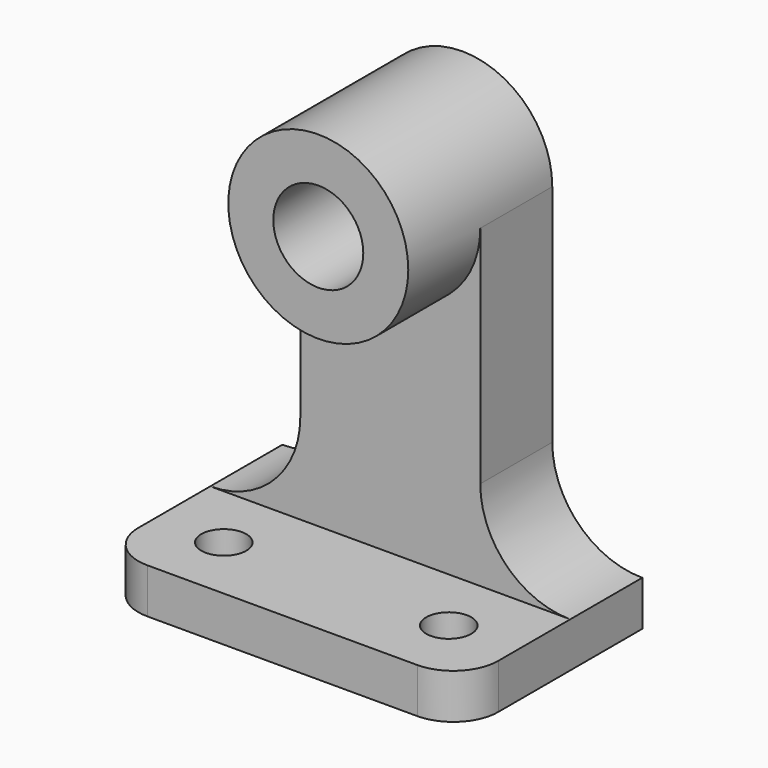
from build123d import *

# Parameters (mm, degrees)
F1_DEPTH = 6.35
F3_DEPTH = 12.7
F5_DEPTH = 12.7
F6_R     = 6.35
F7_DEPTH = 25.4
F8_R     = 3.175
F9_DEPTH = 6.35


with BuildPart() as f1:
    # F0 (on Top) → F1 (new body)
    with BuildSketch(Plane.XY):
        with BuildLine():
            Line((50.8, 0), (0, 0))
            Line((0, 0), (0, -25.4))
            ThreePointArc((0, -25.4), (6.35, -19.05), (12.7, -25.4))
            Line((12.7, -25.4), (38.1, -25.4))
            ThreePointArc((38.1, -25.4), (44.45, -19.05), (50.8, -25.4))
            Line((50.8, -25.4), (50.8, 0))
        make_face()
        with BuildLine():
            ThreePointArc((12.7, -25.4), (6.35, -19.05), (0, -25.4))
            Line((0, -25.4), (6.35, -25.4))
            Line((6.35, -25.4), (12.7, -25.4))
        make_face()
        with BuildLine():
            Line((6.35, -25.4), (0, -25.4))
            ThreePointArc((0, -25.4), (1.8598719395, -29.8901280605), (6.35, -31.75))
            Line((6.35, -31.75), (6.35, -25.4))
        make_face()
        with BuildLine():
            Line((12.7, -25.4), (6.35, -25.4))
            Line((6.35, -25.4), (6.35, -31.75))
            ThreePointArc((6.35, -31.75), (10.8401280605, -29.8901280605), (12.7, -25.4))
        make_face()
        with BuildLine():
            Line((38.1, -25.4), (12.7, -25.4))
            ThreePointArc((12.7, -25.4), (10.8401280605, -29.8901280605), (6.35, -31.75))
            Line((6.35, -31.75), (44.45, -31.75))
            ThreePointArc((44.45, -31.75), (39.9598719395, -29.8901280605), (38.1, -25.4))
        make_face()
        with BuildLine():
            Line((44.45, -31.75), (44.45, -25.4))
            Line((44.45, -25.4), (38.1, -25.4))
            ThreePointArc((38.1, -25.4), (39.9598719395, -29.8901280605), (44.45, -31.75))
        make_face()
        with BuildLine():
            ThreePointArc((44.45, -31.75), (48.9401280605, -29.8901280605), (50.8, -25.4))
            Line((50.8, -25.4), (44.45, -25.4))
            Line((44.45, -25.4), (44.45, -31.75))
        make_face()
        with BuildLine():
            Line((44.45, -25.4), (50.8, -25.4))
            ThreePointArc((50.8, -25.4), (44.45, -19.05), (38.1, -25.4))
            Line((38.1, -25.4), (44.45, -25.4))
        make_face()
    extrude(amount=F1_DEPTH)

    # F2 (on Front) → F3 (join)
    with BuildSketch(Plane.XZ):
        with BuildLine():
            Line((12.7, 19.05), (12.7, 6.35))
            Line((12.7, 6.35), (38.1, 6.35))
            Line((38.1, 6.35), (38.1, 19.05))
            Line((38.1, 19.05), (38.1, 50.8))
            ThreePointArc((38.1, 50.8), (25.4, 38.1), (12.7, 50.8))
            Line((12.7, 50.8), (12.7, 19.05))
        make_face()
        with BuildLine():
            Line((0, 6.35), (12.7, 6.35))
            Line((12.7, 6.35), (12.7, 19.05))
            ThreePointArc((12.7, 19.05), (8.9802561211, 10.0697438789), (0, 6.35))
        make_face()
        with BuildLine():
            Line((38.1, 19.05), (38.1, 6.35))
            Line((38.1, 6.35), (50.8, 6.35))
            ThreePointArc((50.8, 6.35), (41.8197438789, 10.0697438789), (38.1, 19.05))
        make_face()
        with BuildLine():
            ThreePointArc((38.1, 50.8), (25.4, 63.5), (12.7, 50.8))
            Line((12.7, 50.8), (38.1, 50.8))
        make_face()
        with BuildLine():
            Line((38.1, 50.8), (12.7, 50.8))
            ThreePointArc((12.7, 50.8), (25.4, 38.1), (38.1, 50.8))
        make_face()
    extrude(amount=F3_DEPTH)

    # F4 (on face) → F5 (join)
    with BuildSketch(Plane.XZ.offset(12.7)):
        with BuildLine():
            ThreePointArc((12.7, 50.8), (25.4, 38.1), (38.1, 50.8))
            ThreePointArc((38.1, 50.8), (25.4, 63.5), (12.7, 50.8))
        make_face()
    extrude(amount=F5_DEPTH)

    # F6 (on face) → F7 (cut)
    with BuildSketch(Plane.XZ.offset(25.4)):
        with Locations((25.4, 50.8)):
            Circle(F6_R)
    extrude(amount=-F7_DEPTH, mode=Mode.SUBTRACT)

    # F8 (on face) → F9 (cut)
    with BuildSketch(Plane.XY.offset(6.35)):
        with Locations((9.525, -22.225)):
            Circle(F8_R)
        with Locations((41.275, -22.225)):
            Circle(F8_R)
    extrude(amount=-F9_DEPTH, mode=Mode.SUBTRACT)


solid = f1.part
